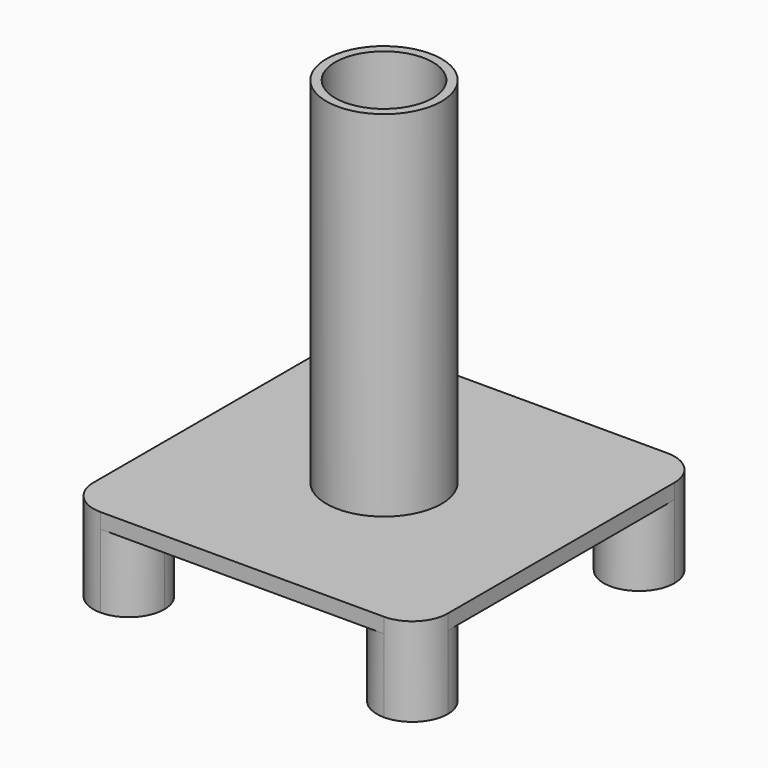
from build123d import *

# Parameters (mm, degrees)
F0_R     = 8.255
F0_R_2   = 6.985
F1_DEPTH = 50.8
F3_DEPTH = 12.7
F2_R     = 8.255
F4_DEPTH = 2.159


with BuildPart() as f1:
    # F0 (on Top) → F1 (new body)
    with BuildSketch(Plane.XY):
        Circle(F0_R)
        Circle(F0_R_2, mode=Mode.SUBTRACT)
    extrude(amount=F1_DEPTH)



with BuildPart() as f3:
    # F2 (on face) → F3 (new body)
    with BuildSketch(Plane(origin=(0, 0, 0), x_dir=(1, 0, 0), z_dir=(0, 0, -1))):
        with BuildLine():
            ThreePointArc((-20.32, 25.4), (-23.9121024484, 23.9121024484), (-25.4, 20.32))
            ThreePointArc((-25.4, 20.32), (-20.32, 15.24), (-15.24, 20.32))
            ThreePointArc((-15.24, 20.32), (-16.7278975516, 23.9121024484), (-20.32, 25.4))
        make_face()
    extrude(amount=F3_DEPTH)


with BuildPart() as f3b:
    # F2 (on face) → F3, piece 2 (new body)
    with BuildSketch(Plane(origin=(0, 0, 0), x_dir=(1, 0, 0), z_dir=(0, 0, -1))):
        with BuildLine():
            ThreePointArc((20.32, 25.4), (16.7278975516, 16.7278975516), (25.4, 20.32))
            ThreePointArc((25.4, 20.32), (23.9121024484, 23.9121024484), (20.32, 25.4))
        make_face()
    extrude(amount=F3_DEPTH)


with BuildPart() as f3c:
    # F2 (on face) → F3, piece 3 (new body)
    with BuildSketch(Plane(origin=(0, 0, 0), x_dir=(1, 0, 0), z_dir=(0, 0, -1))):
        with BuildLine():
            ThreePointArc((25.4, -20.32), (16.7278975516, -16.7278975516), (20.32, -25.4))
            ThreePointArc((20.32, -25.4), (23.9121024484, -23.9121024484), (25.4, -20.32))
        make_face()
    extrude(amount=F3_DEPTH)


with BuildPart() as f3d:
    # F2 (on face) → F3, piece 4 (new body)
    with BuildSketch(Plane(origin=(0, 0, 0), x_dir=(1, 0, 0), z_dir=(0, 0, -1))):
        with BuildLine():
            ThreePointArc((-25.4, -20.32), (-23.9121024484, -23.9121024484), (-20.32, -25.4))
            ThreePointArc((-20.32, -25.4), (-16.7278975516, -23.9121024484), (-15.24, -20.32))
            ThreePointArc((-15.24, -20.32), (-20.32, -15.24), (-25.4, -20.32))
        make_face()
    extrude(amount=F3_DEPTH)


with BuildPart() as f1_1:
    add(f1.part)

    add(f3.part)  # F4 merges F3

    add(f3b.part)  # F4 merges F3b

    add(f3c.part)  # F4 merges F3c

    add(f3d.part)  # F4 merges F3d
    # F2 (on face) → F4 (join)
    with BuildSketch(Plane(origin=(0, 0, 0), x_dir=(1, 0, 0), z_dir=(0, 0, -1))):
        with BuildLine():
            Line((-20.32, -25.4), (20.32, -25.4))
            ThreePointArc((20.32, -25.4), (16.7278975516, -16.7278975516), (25.4, -20.32))
            Line((25.4, -20.32), (25.4, 20.32))
            ThreePointArc((25.4, 20.32), (16.7278975516, 16.7278975516), (20.32, 25.4))
            Line((20.32, 25.4), (-20.32, 25.4))
            ThreePointArc((-20.32, 25.4), (-16.7278975516, 23.9121024484), (-15.24, 20.32))
            ThreePointArc((-15.24, 20.32), (-20.32, 15.24), (-25.4, 20.32))
            Line((-25.4, 20.32), (-25.4, -20.32))
            ThreePointArc((-25.4, -20.32), (-20.32, -15.24), (-15.24, -20.32))
            ThreePointArc((-15.24, -20.32), (-16.7278975516, -23.9121024484), (-20.32, -25.4))
        make_face()
        Circle(F2_R, mode=Mode.SUBTRACT)
    extrude(amount=F4_DEPTH)


solid = f1_1.part
